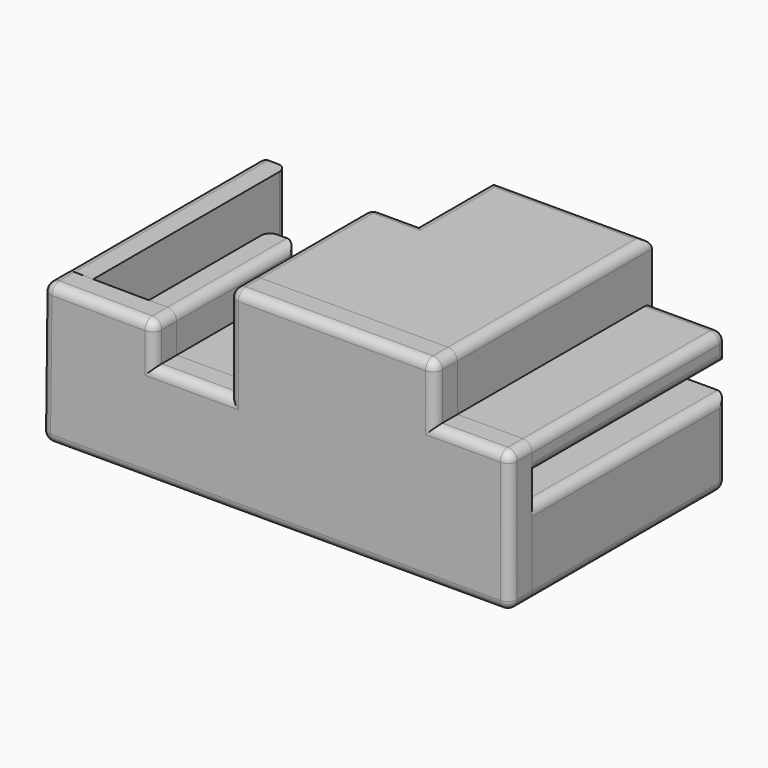
from build123d import *

# Parameters (mm, degrees)
F1_DEPTH = 13
F3_DEPTH = 3
F4_W     = 22
F4_H     = 10
F5_DEPTH = 18
F6_R     = 1
F6_2_R   = 1


with BuildPart() as f1:
    # F0 (on Front) → F1 (new body, symmetric)
    with BuildSketch(Plane.XZ):
        Polygon((-47, 15), (-50, 15), (-50, 0), (0, 0), (0, 9), (-8, 9), (-8, 3), (-47, 3), align=None)
        Polygon((-38, 15), (-41, 15), (-41, 7.823235), (-27, 7.823235), (-27, 18), (-11, 18), (-11, 12), (0, 12), (0, 15), (-8, 15), (-8, 21), (-30, 21), (-30, 10.823235), (-38, 10.823235), align=None)
    extrude(amount=F1_DEPTH, both=True)

    # F4 (on face) → F5 (cut, through all)
    with BuildSketch(Plane.XY.offset(21)):
        with Locations((-36, 8)):
            Rectangle(F4_W, F4_H)
    extrude(amount=-F5_DEPTH, mode=Mode.SUBTRACT)

    # F6
    f6_edges = [f1.edges().sort_by_distance(p)[0] for p in [
        (-50, 0, 0),
        (-38, -5, 15),
        (-25, 13, 0),
        (0, 13, 4.5),
        (0, 13, 13.5),
        (-30, -5, 21),
        (-8, 0, 21),
        (0, 0, 15),
        (0, 0, 0),
        (-16.5, 13, 21),
        (-50, 13, 7.5),
        (-4, 13, 15),
        (-25, 8, 21),
        (-30, 3, 15.911617),
        (-34, 3, 10.823235),
        (-27.5, 3, 21),
        (-50, 0, 15),
        (0, 0, 12),
        (0, 0, 9),
        (-38, 3, 12.911617),
        (-47, 13, 9),
        (-41, 3, 11.411617),
        (-27, 3, 12.911617),
        (-11, 13, 15),
        (-18, 13, 18),
        (-25, 8, 18),
        (-26, 3, 18),
        (-34, 3, 7.823235),
    ]]
    fillet(f6_edges, radius=F6_R)


with BuildPart() as f3:
    # F2 (on face) → F3 (new body)
    with BuildSketch(Plane.XZ.offset(13)):
        Polygon((-38, 15), (-49.912799, 15.09014), (-50.09222, 0), (0, 0), (0, 15), (-8, 15), (-8, 21), (-30, 21), (-30, 10.823235), (-38, 10.823235), align=None)
    extrude(amount=F3_DEPTH)

    # F6#2
    f6_2_edges = [f3.edges().sort_by_distance(p)[0] for p in [
        (-38, -14.5, 15),
        (-49.912799, -14.5, 15.09014),
        (-43.9564, -16, 15.04507),
        (-50.00251, -16, 7.54507),
        (-50.09222, -14.5, 0),
        (-30, -14.5, 21),
        (-8, -14.5, 21),
        (-19, -16, 21),
        (-30, -16, 15.911617),
        (-34, -16, 10.823235),
        (0, -14.5, 15),
        (-25.04611, -16, 0),
        (0, -16, 7.5),
        (0, -14.5, 0),
        (-4, -16, 15),
        (-8, -16, 18),
        (-38, -16, 12.911617),
    ]]
    fillet(f6_2_edges, radius=F6_2_R)


solid = Compound([f1.part, f3.part])
